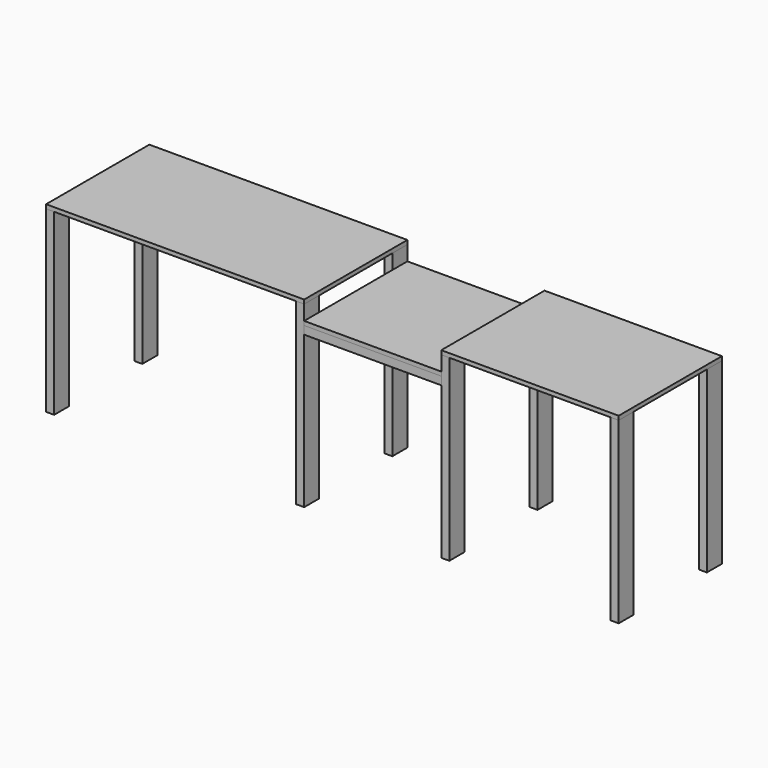
from build123d import *

# Parameters (mm, degrees)
F0_W      = 38.1
F0_H      = 88.9
F1_DEPTH  = 844.55
F4_W      = 1219.2
F4_H      = 609.6
F5_DEPTH  = 19.05
F6_W      = 88.9
F6_H      = 38.1
F7_DEPTH  = 647.7
F6_H_2    = 19.05
F6_W_2    = 431.8
F8_DEPTH  = 647.7
F15_DEPTH = 838.1999999997


with BuildPart() as f1:
    # F0 (on Top) → F1 (new body)
    with BuildSketch(Plane.XY):
        with Locations((-590.55, 565.15)):
            Rectangle(F0_W, F0_H)
    extrude(amount=F1_DEPTH)


with BuildPart() as f1b:
    # F0 (on Top) → F1, piece 2 (new body)
    with BuildSketch(Plane.XY):
        with Locations((-590.55, 44.45)):
            Rectangle(F0_W, F0_H)
    extrude(amount=F1_DEPTH)


with BuildPart() as f2_1:
    # F2: instance of F1b
    add(f1b.part.mirror(Plane.YZ))


with BuildPart() as f2_2:
    # F2: instance of F1
    add(f1.part.mirror(Plane.YZ))


with BuildPart() as f5:
    # F4 (on plane+point) → F5 (new body)
    with BuildSketch(Plane.XY.offset(844.55)):
        with Locations((0, 304.8)):
            Rectangle(F4_W, F4_H)
    extrude(amount=F5_DEPTH)


with BuildPart() as f7:
    # F6 (on face) → F7 (new body)
    with BuildSketch(Plane.YZ.offset(609.6)):
        with Locations((44.45, 736.6)):
            Rectangle(F6_W, F6_H)
    extrude(amount=F7_DEPTH)


with BuildPart() as f7b:
    # F6 (on face) → F7, piece 2 (new body)
    with BuildSketch(Plane.YZ.offset(609.6)):
        with Locations((565.15, 736.6)):
            Rectangle(F6_W, F6_H)
    extrude(amount=F7_DEPTH)


with BuildPart() as f8:
    # F6 (on face) → F8 (new body, through all)
    with BuildSketch(Plane.YZ.offset(609.6)):
        with Locations((44.45, 765.175)):
            Rectangle(F6_W, F6_H_2)
        with Locations((565.15, 765.175)):
            Rectangle(F6_W, F6_H_2)
        with Locations((304.8, 765.175)):
            Rectangle(F6_W_2, F6_H_2)
    extrude(amount=F8_DEPTH)


with BuildPart() as f11_1:
    # F11: instance of F2_1
    add(f2_1.part.mirror(Plane.YZ.offset(933.45)))


with BuildPart() as f11_2:
    # F11: instance of F2_2
    add(f2_2.part.mirror(Plane.YZ.offset(933.45)))


with BuildPart() as f13_1:
    # F13: instance of F11_1
    add(f11_1.part.mirror(Plane(origin=(1676.4, 44.45, 422.275), x_dir=(0, 1, 0), z_dir=(1, 0, 0))))


with BuildPart() as f13_2:
    # F13: instance of F11_2
    add(f11_2.part.mirror(Plane(origin=(1676.4, 44.45, 422.275), x_dir=(0, 1, 0), z_dir=(1, 0, 0))))


with BuildPart() as f15:
    # F14 (on face) → F15 (new body, through all)
    with BuildSketch(Plane(origin=(1257.3000000003, 0, 0), x_dir=(0, -1, 0), z_dir=(-1, 0, 0))):
        Polygon((-609.6, 863.6), (-609.6, 844.55), (-520.7, 844.55), (-88.9, 844.55), (0, 844.55), (0, 863.6), align=None)
    extrude(amount=-F15_DEPTH)


solid = Compound([f1.part, f1b.part, f2_1.part, f2_2.part, f5.part, f7.part, f7b.part, f8.part, f11_1.part, f11_2.part, f13_1.part, f13_2.part, f15.part])
